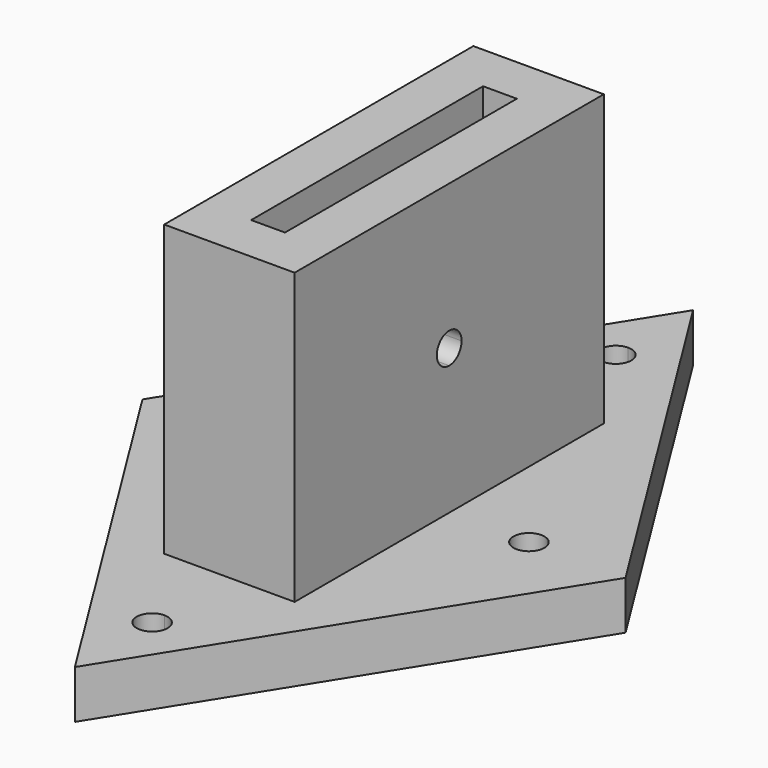
from build123d import *

# Parameters (mm, degrees)
F1_DEPTH = 5
F3_DEPTH = 30
F5_DEPTH = 31.751


with BuildPart() as f1:
    # F0 (on Top) → F1 (new body)
    with BuildSketch(Plane.XY):
        with BuildLine():
            ThreePointArc((-16.6, 0), (-15, 1.6), (-13.4, 0))
            Line((-13.4, 0), (0, 0))
            Line((0, 0), (0, 28.4))
            ThreePointArc((0, 28.4), (-1.6, 30), (0, 31.6))
            Line((0, 31.6), (0, 40))
            Line((0, 40), (-25, 0))
            Line((-25, 0), (-16.6, 0))
        make_face()
        with BuildLine():
            Line((0, 0), (-13.4, 0))
            ThreePointArc((-13.4, 0), (-15, -1.6), (-16.6, 0))
            Line((-16.6, 0), (-25, 0))
            Line((-25, 0), (0, -40))
            Line((0, -40), (0, -31.6))
            ThreePointArc((0, -31.6), (-1.6, -30), (0, -28.4))
            Line((0, -28.4), (0, 0))
        make_face()
        with BuildLine():
            Line((0, 28.4), (0, 0))
            Line((0, 0), (13.4, 0))
            ThreePointArc((13.4, 0), (15, 1.6), (16.6, 0))
            Line((16.6, 0), (25, 0))
            Line((25, 0), (0, 40))
            Line((0, 40), (0, 31.6))
            ThreePointArc((0, 31.6), (1.131371, 31.131371), (1.6, 30))
            ThreePointArc((1.6, 30), (1.131371, 28.868629), (0, 28.4))
        make_face()
        with BuildLine():
            Line((13.4, 0), (0, 0))
            Line((0, 0), (0, -28.4))
            ThreePointArc((0, -28.4), (1.131371, -28.868629), (1.6, -30))
            ThreePointArc((1.6, -30), (1.131371, -31.131371), (0, -31.6))
            Line((0, -31.6), (0, -40))
            Line((0, -40), (25, 0))
            Line((25, 0), (16.6, 0))
            ThreePointArc((16.6, 0), (15, -1.6), (13.4, 0))
        make_face()
    extrude(amount=F1_DEPTH)

    # F2 (on face) → F3 (join)
    with BuildSketch(Plane.XY.offset(5)):
        Polygon((6.75, 20), (0, 20), (0, 15), (1.75, 15), (1.75, 0), (6.75, 0), align=None)
        Polygon((0, 15), (0, 20), (-6.75, 20), (-6.75, 0), (-1.75, 0), (-1.75, 15), align=None)
        Polygon((6.75, -20), (6.75, 0), (1.75, 0), (1.75, -15), (0, -15), (0, -20), align=None)
        Polygon((-1.75, 0), (-6.75, 0), (-6.75, -20), (0, -20), (0, -15), (-1.75, -15), align=None)
    extrude(amount=F3_DEPTH)

    # F4 (on face) → F5 (cut, through all)
    with BuildSketch(Plane(origin=(-6.75, 0, 0), x_dir=(0, -1, 0), z_dir=(-1, 0, 0))):
        with BuildLine():
            ThreePointArc((-1.6, 20), (-1.131371, 18.868629), (0, 18.4))
            Line((0, 18.4), (0, 20))
            Line((0, 20), (-1.6, 20))
        make_face()
        with BuildLine():
            Line((0, 20), (0, 18.4))
            ThreePointArc((0, 18.4), (1.131371, 18.868629), (1.6, 20))
            ThreePointArc((1.6, 20), (0, 21.6), (-1.6, 20))
            Line((-1.6, 20), (0, 20))
        make_face()
    extrude(amount=-F5_DEPTH, mode=Mode.SUBTRACT)


solid = f1.part
